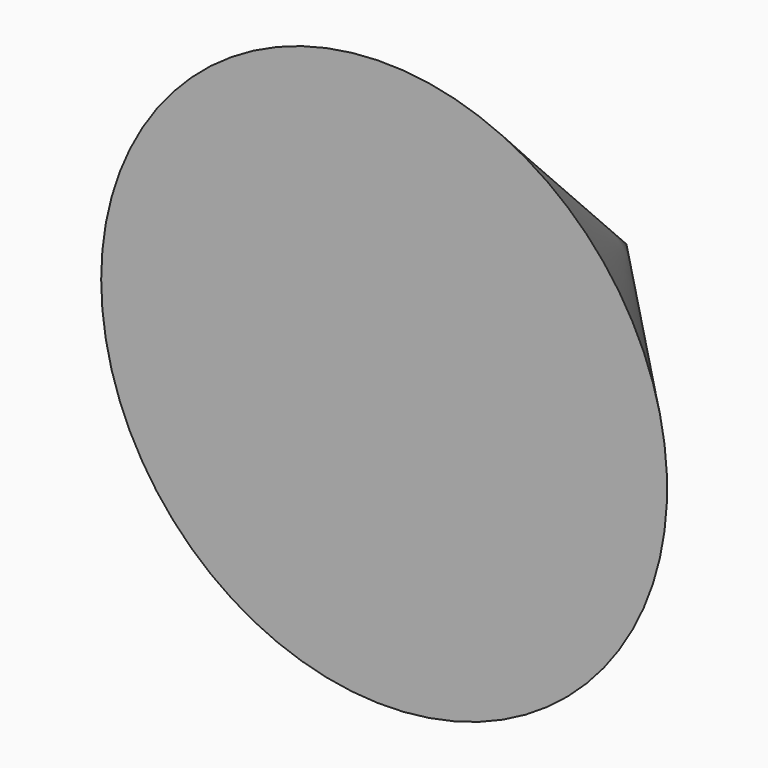
from build123d import *


with BuildPart() as f1:
    # F0 (on Top) → F1 (revolve)
    with BuildSketch(Plane.XY):
        Polygon((-60.809281, 0), (0, 0), (0, 65.080784), align=None)
    revolve(axis=Axis((0, 32.540392, 0), (0, -1, 0)))


solid = f1.part
